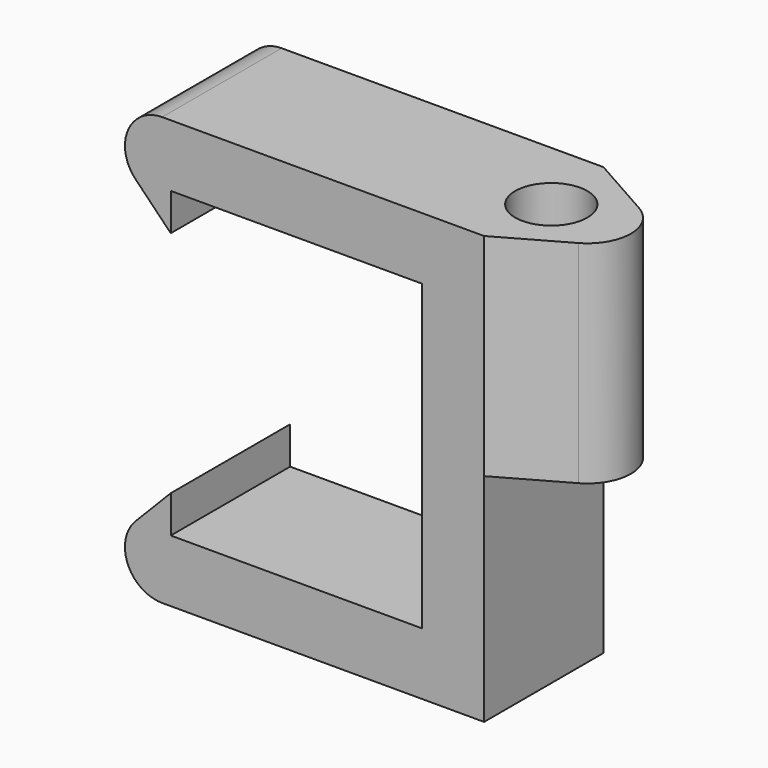
from build123d import *

# Parameters (mm, degrees)
F1_DEPTH = 6
F2_R     = 1.5
F4_DEPTH = 6
F5_DEPTH = 4
F6_R     = 1.45
F7_DEPTH = 8


with BuildPart() as f1:
    # F0 (on Front) → F1 (new body)
    with BuildSketch(Plane.XZ):
        Polygon((0, 0), (0, -12.2), (-10.1, -12.2), (-10.1, -10.7), (-14, -14.7), (2.5, -14.7), (2.5, 0), (6, 0), (6, 2.5), (-14, 2.5), (-10.1, -1.5), (-10.1, 0), align=None)
    extrude(amount=F1_DEPTH)

    # F2
    f2_edges = [f1.edges().sort_by_distance(p)[0] for p in [
        (-14, -3, -14.7),
        (-14, -3, 2.5),
    ]]
    fillet(f2_edges, radius=F2_R)

    # F3 (on face) → F4 (join)
    with BuildSketch(Plane(origin=(0, 0, 0), x_dir=(1, 0, 0), z_dir=(0, 0, -1))):
        with BuildLine():
            Line((2.5, 0), (5.1113989637, 1.4766839378))
            ThreePointArc((5.1113989637, 1.4766839378), (5.7616130766, 2.1182257053), (6, 3))
            ThreePointArc((6, 3), (5.7616130766, 3.8817742947), (5.1113989637, 4.5233160622))
            Line((5.1113989637, 4.5233160622), (2.5, 6))
            Line((2.5, 6), (2.5, 0))
        make_face()
    extrude(amount=F4_DEPTH)

    # F5 (cut): faces of the model
    f5_faces = [f1.faces().sort_by_distance(p)[0] for p in [
        (4.8789891279, -0.7262583823, 0),
        (4.8789891279, -5.2737416177, 0),
    ]]
    extrude(f5_faces, amount=-F5_DEPTH, mode=Mode.SUBTRACT)

    # F6 (on face) → F7 (cut)
    with BuildSketch(Plane.XY.offset(2.5)):
        with Locations((2.8, -3)):
            Circle(F6_R)
    extrude(amount=-F7_DEPTH, mode=Mode.SUBTRACT)


solid = f1.part
